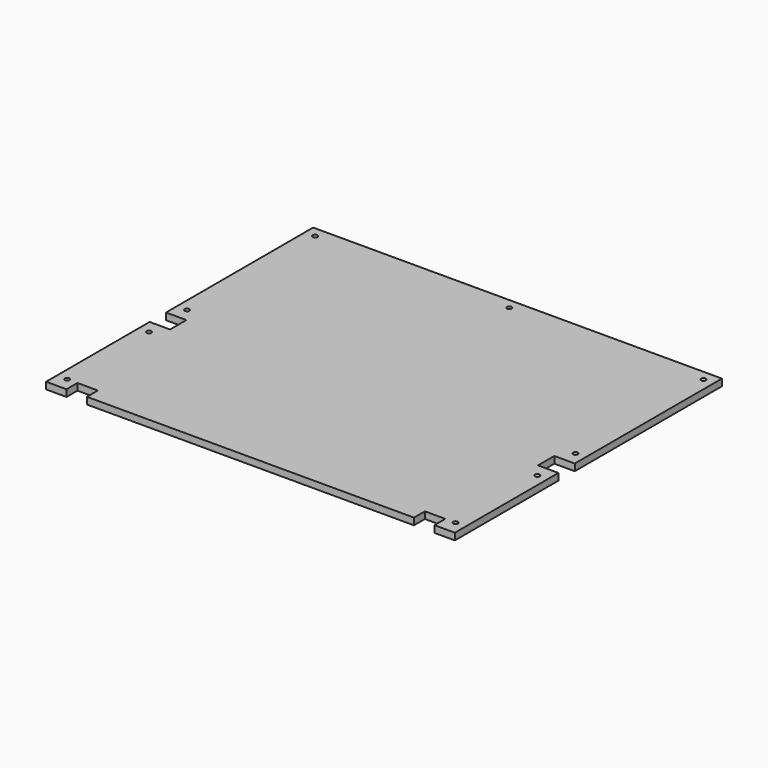
from build123d import *

# Parameters (mm, degrees)
F0_R     = 3.5
F1_DEPTH = 10


with BuildPart() as f1:
    # F0 (on Top) → F1 (new body)
    with BuildSketch(Plane.XY):
        Polygon((300, -25), (300, 245), (-300, 245), (-300, -25), (-270, -25), (-270, -55), (-300, -55), (-300, -245), (-270, -245), (-270, -225), (-240, -225), (-240, -245), (240, -245), (240, -225), (270, -225), (270, -245), (300, -245), (300, -55), (270, -55), (270, -25), align=None)
        with Locations((-285, -225)):
            Circle(F0_R, mode=Mode.SUBTRACT)
        with Locations((-285, -75)):
            Circle(F0_R, mode=Mode.SUBTRACT)
        with Locations((-285, -5)):
            Circle(F0_R, mode=Mode.SUBTRACT)
        with Locations((285, -225)):
            Circle(F0_R, mode=Mode.SUBTRACT)
        with Locations((285, -75)):
            Circle(F0_R, mode=Mode.SUBTRACT)
        with Locations((285, -5)):
            Circle(F0_R, mode=Mode.SUBTRACT)
        with Locations((-285, 230)):
            Circle(F0_R, mode=Mode.SUBTRACT)
        with Locations((0, 230)):
            Circle(F0_R, mode=Mode.SUBTRACT)
        with Locations((285, 230)):
            Circle(F0_R, mode=Mode.SUBTRACT)
    extrude(amount=F1_DEPTH)


solid = f1.part
